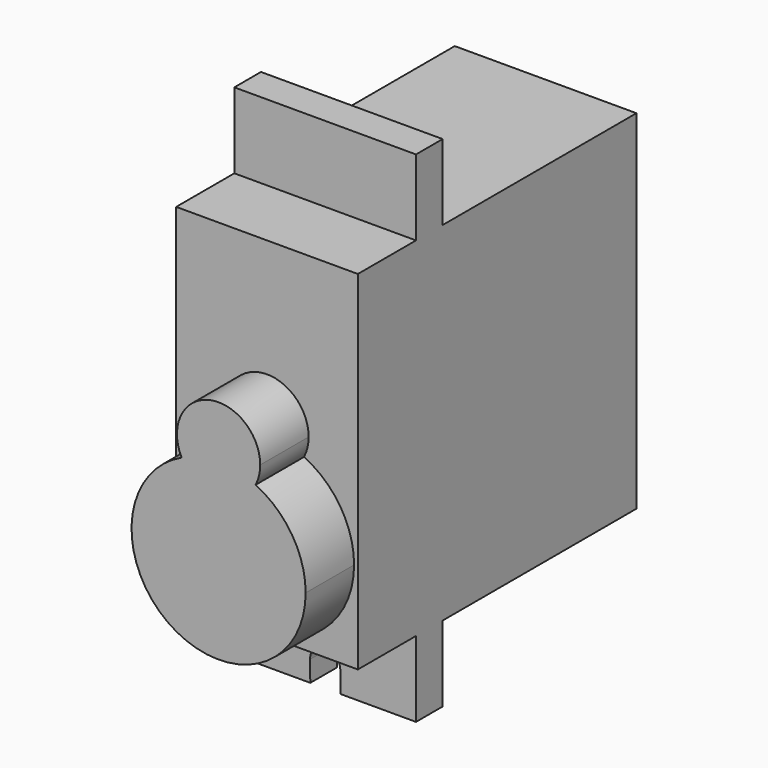
from build123d import *

# Parameters (mm, degrees)
F0_W     = 12
F0_H     = 23
F1_DEPTH = 23
F3_DEPTH = 4
F4_W     = 12
F4_H     = 2.2
F5_DEPTH = 5
F6_DEPTH = 28
F8_DEPTH = 4.36513


with BuildPart() as f1:
    # F0 (on Front) → F1 (new body)
    with BuildSketch(Plane.XZ):
        with Locations((6, -11.5)):
            Rectangle(F0_W, F0_H)
    extrude(amount=F1_DEPTH)

    # F2 (on face) → F3 (join)
    with BuildSketch(Plane.XZ.offset(23)):
        with BuildLine():
            ThreePointArc((3.556097, -11.79521), (6, -11.25), (8.443903, -11.79521))
            ThreePointArc((8.443903, -11.79521), (8.67238, -11.183078), (8.75, -10.534323))
            ThreePointArc((8.75, -10.534323), (5.351245, -7.861942), (3.556097, -11.79521))
        make_face()
        with BuildLine():
            ThreePointArc((3.556097, -11.79521), (6, -13.284323), (8.443903, -11.79521))
            ThreePointArc((8.443903, -11.79521), (6, -11.25), (3.556097, -11.79521))
        make_face()
        with BuildLine():
            ThreePointArc((3.556097, -11.79521), (2.916977, -21.853604), (11.75, -17))
            ThreePointArc((11.75, -17), (10.853604, -13.916977), (8.443903, -11.79521))
            ThreePointArc((8.443903, -11.79521), (6, -13.284323), (3.556097, -11.79521))
        make_face()
    extrude(amount=F3_DEPTH)

    # F4 (on face) → F5 (join)
    with BuildSketch(Plane.XY):
        with Locations((6, -17.1)):
            Rectangle(F4_W, F4_H)
    extrude(amount=F5_DEPTH)

    # F4 (on face) → F6 (join)
    with BuildSketch(Plane.XY):
        with Locations((6, -17.1)):
            Rectangle(F4_W, F4_H)
    extrude(amount=-F6_DEPTH)

    # F7 (on face) → F8 (cut)
    with BuildSketch(Plane.XZ.offset(18.2)):
        with BuildLine():
            Line((6.998493, -29.572871), (6.998493, -26.675947))
            Line((6.998493, -26.675947), (6.998493, -26.566196))
            ThreePointArc((6.998493, -26.566196), (5.96604, -25.621648), (5.000085, -26.634102))
            Line((5.000085, -26.634102), (5.036416, -29.422127))
            Line((5.036416, -29.422127), (6.998493, -29.572871))
        make_face()
        with BuildLine():
            Line((6.998493, -29.572871), (6.998493, -26.675947))
            Line((6.998493, -26.675947), (6.998493, -26.566196))
            ThreePointArc((6.998493, -26.566196), (5.96604, -25.621648), (5.000085, -26.634102))
            Line((5.000085, -26.634102), (5.036416, -29.422127))
            Line((5.036416, -29.422127), (6.998493, -29.572871))
        make_face()
    extrude(amount=-F8_DEPTH, mode=Mode.SUBTRACT)


solid = f1.part
